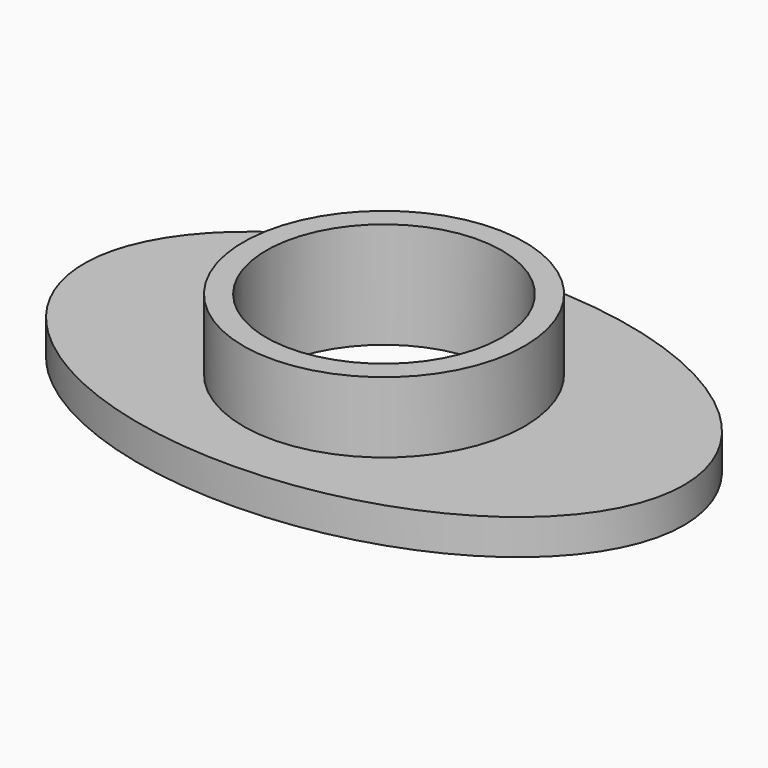
from build123d import *

# Parameters (mm, degrees)
F0_R     = 20.212403
F1_DEPTH = 5.08
F0_R_2   = 16.937918
F2_DEPTH = 15.24


with BuildPart() as f1:
    # F0 (on Top) → F1 (new body)
    with BuildSketch(Plane.XY):
        with BuildLine():
            add(Edge.make_bspline(
                [(43.097182, 0), (43.097182, 48.484333), (-21.548591, 24.242166), (-86.194364, 0), (-21.548591, -24.242166), (43.097182, -48.484333), (43.097182, 0)],
                knots=[0, 0, 0, 2.094395, 2.094395, 4.18879, 4.18879, 6.283185, 6.283185, 6.283185], degree=2, weights=[1, 0.5, 1, 0.5, 1, 0.5, 1]))
        make_face()
        Circle(F0_R, mode=Mode.SUBTRACT)
    extrude(amount=F1_DEPTH)


with BuildPart() as f2:
    # F0 (on Top) → F2 (new body)
    with BuildSketch(Plane.XY):
        Circle(F0_R)
        Circle(F0_R_2, mode=Mode.SUBTRACT)
    extrude(amount=F2_DEPTH)


solid = Compound([f1.part, f2.part])
